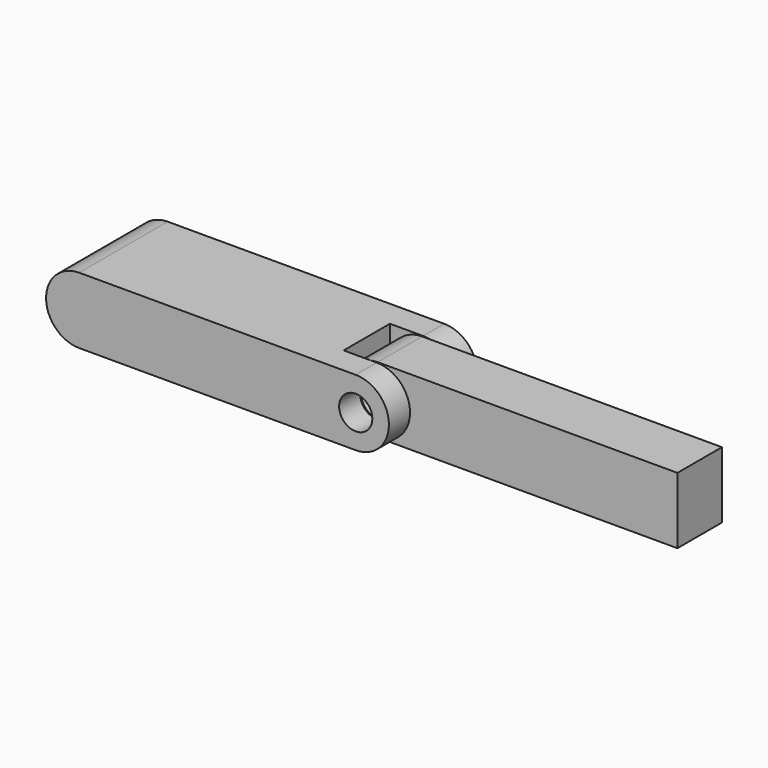
from build123d import *

# Parameters (mm, degrees)
F0_R          = 1.5
F1_DEPTH      = 5
F1_DEPTH_BACK = 5
F2_W          = 3
F2_H          = 5.229874
F3_DEPTH      = 25
F4_W          = 30
F4_H          = 5.029874
F5_DEPTH      = 6
F6_R          = 1.5
F7_DEPTH      = 5.029874


with BuildPart() as f1:
    # F0 (on Front) → F1 (new body, two sides)
    with BuildSketch(Plane.XZ) as f1_sk:
        with BuildLine():
            ThreePointArc((0, -3), (3, 0), (0, 3))
            Line((0, 3), (-25, 3))
            ThreePointArc((-25, 3), (-28, 0), (-25, -3))
            Line((-25, -3), (0, -3))
        make_face()
        Circle(F0_R, mode=Mode.SUBTRACT)
    extrude(amount=F1_DEPTH)
    extrude(f1_sk.sketch, amount=-F1_DEPTH_BACK)

    # F2 (on face) → F3 (cut)
    with BuildSketch(Plane.XY.offset(3)):
        Polygon((0, -2.614937), (0, 2.614937), (-3, 2.614937), (-3, 0), (-3, -2.614937), align=None)
        with Locations((1.5, 0)):
            Rectangle(F2_W, F2_H)
    extrude(amount=-F3_DEPTH, mode=Mode.SUBTRACT)


with BuildPart() as f5:
    # F4 (on face) → F5 (new body, through all)
    with BuildSketch(Plane.XY.offset(3)):
        with Locations((12.1, 0)):
            Rectangle(F4_W, F4_H)
    extrude(amount=-F5_DEPTH)

    # F6 (on face) → F7 (cut, through all)
    with BuildSketch(Plane(origin=(0, 2.514937, 0), x_dir=(-1, 0, 0), z_dir=(0, 1, 0))):
        Circle(F6_R)
        with BuildLine():
            Line((2.9, 3), (0, 3))
            ThreePointArc((0, 3), (1.829707, 2.37743), (2.9, 0.768115))
            Line((2.9, 0.768115), (2.9, 3))
        make_face()
        with BuildLine():
            Line((2.9, -3), (2.9, -0.768115))
            ThreePointArc((2.9, -0.768115), (1.829707, -2.37743), (0, -3))
            Line((0, -3), (2.9, -3))
        make_face()
    extrude(amount=-F7_DEPTH, mode=Mode.SUBTRACT)


solid = Compound([f1.part, f5.part])
